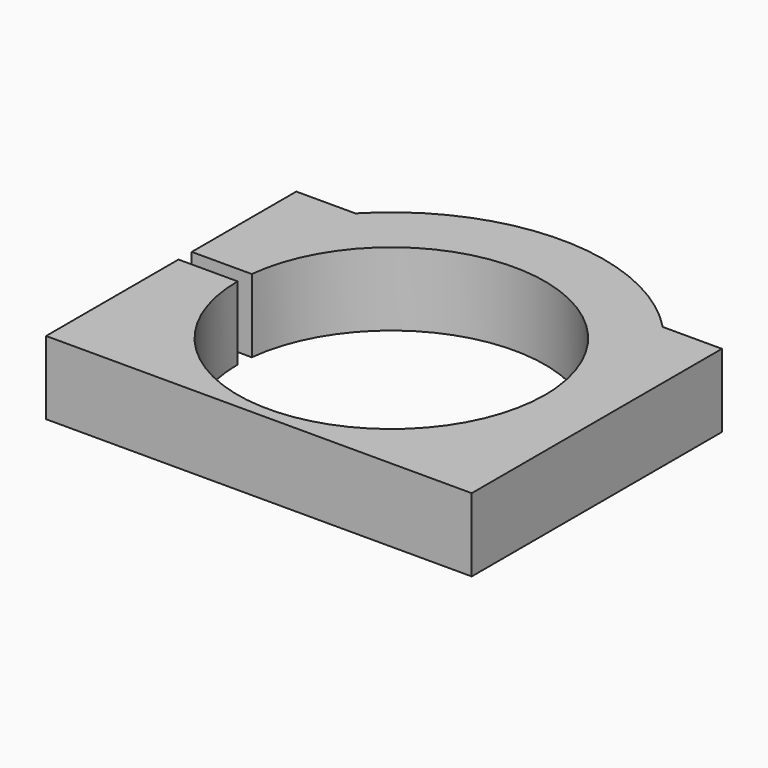
from build123d import *

# Parameters (mm, degrees)
F1_DEPTH = 15.5


with BuildPart() as f1:
    # F0 (on Top) → F1 (new body)
    with BuildSketch(Plane.XY):
        with BuildLine():
            Line((0, 35), (0, 0))
            Line((0, 0), (90, 0))
            Line((90, 0), (90, 35))
            Line((90, 35), (90, 38.5))
            Line((90, 38.5), (90, 66.127198))
            Line((90, 66.127198), (77.497654, 66.127198))
            ThreePointArc((77.497654, 66.127198), (45, 80), (12.502346, 66.127198))
            Line((12.502346, 66.127198), (0, 66.127198))
            Line((0, 66.127198), (0, 38.5))
            Line((0, 38.5), (12.689011, 38.5))
            ThreePointArc((12.689011, 38.5), (45, 67.5), (77.310989, 38.5))
            ThreePointArc((77.310989, 38.5), (77.452713, 36.75255), (77.5, 35))
            ThreePointArc((77.5, 35), (45, 2.5), (12.5, 35))
            Line((12.5, 35), (0, 35))
        make_face()
    extrude(amount=F1_DEPTH)


solid = f1.part
